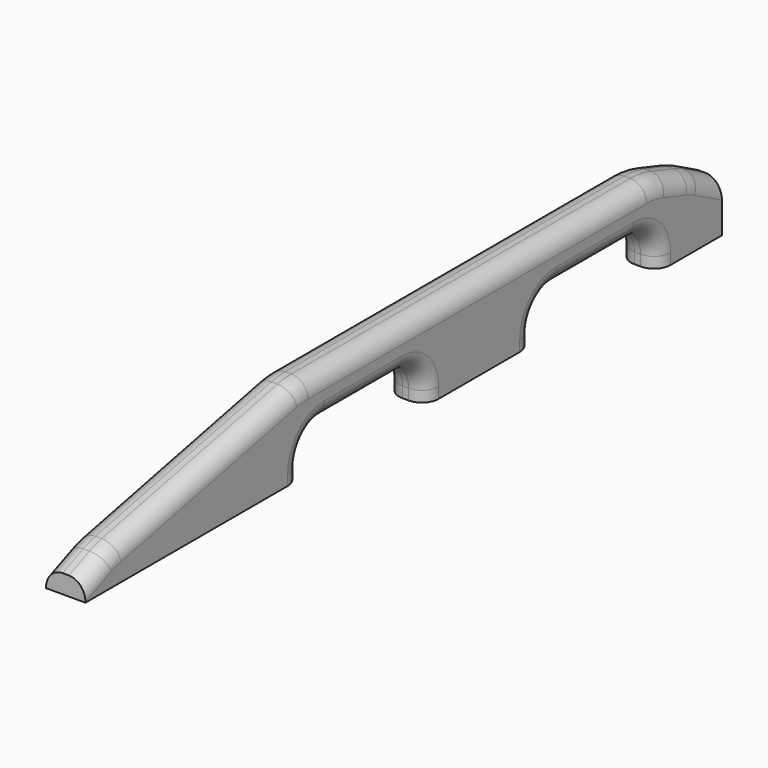
from build123d import *

# Parameters (mm, degrees)
F1_DEPTH      = 15.08125
F1_DEPTH_BACK = 15.08125
F2_R          = 63.5
F3_R          = 22.225
F4_R          = 12.7


with BuildPart() as f1:
    # F0 (on Right) → F1 (new body, two sides)
    with BuildSketch(Plane.YZ) as f1_sk:
        Polygon((0, 14.2875), (0, 0), (206.375, 0), (206.375, 30.48), (325.4375, 30.48), (325.4375, 0), (428.625, 0), (428.625, 30.48), (547.6875, 30.48), (547.6875, 0), (609.6, 0), (609.6, 38.1), (584.2, 51.60542), (547.6875, 63.5), (206.375, 63.5), (25.4, 25.06916), align=None)
    extrude(amount=F1_DEPTH)
    extrude(f1_sk.sketch, amount=-F1_DEPTH_BACK)

    # F2
    f2_edges = [f1.edges().sort_by_distance(p)[0] for p in [
        (0, 25.4, 25.06916),
        (0, 206.375, 63.5),
        (0, 547.6875, 63.5),
        (0, 584.2, 51.60542),
    ]]
    fillet(f2_edges, radius=F2_R)

    # F3
    f3_edges = [f1.edges().sort_by_distance(p)[0] for p in [
        (0, 206.375, 30.48),
        (0, 325.4375, 30.48),
        (0, 428.625, 30.48),
        (0, 547.6875, 30.48),
    ]]
    fillet(f3_edges, radius=F3_R)

    # F4
    f4_edges = [f1.edges().sort_by_distance(p)[0] for p in [
        (15.08125, 265.90625, 30.48),
        (-15.08125, 265.90625, 30.48),
        (15.08125, 488.15625, 30.48),
        (-15.08125, 488.15625, 30.48),
        (15.08125, 375.324025, 63.5),
        (-15.08125, 375.324025, 63.5),
    ]]
    fillet(f4_edges, radius=F4_R)


solid = f1.part
